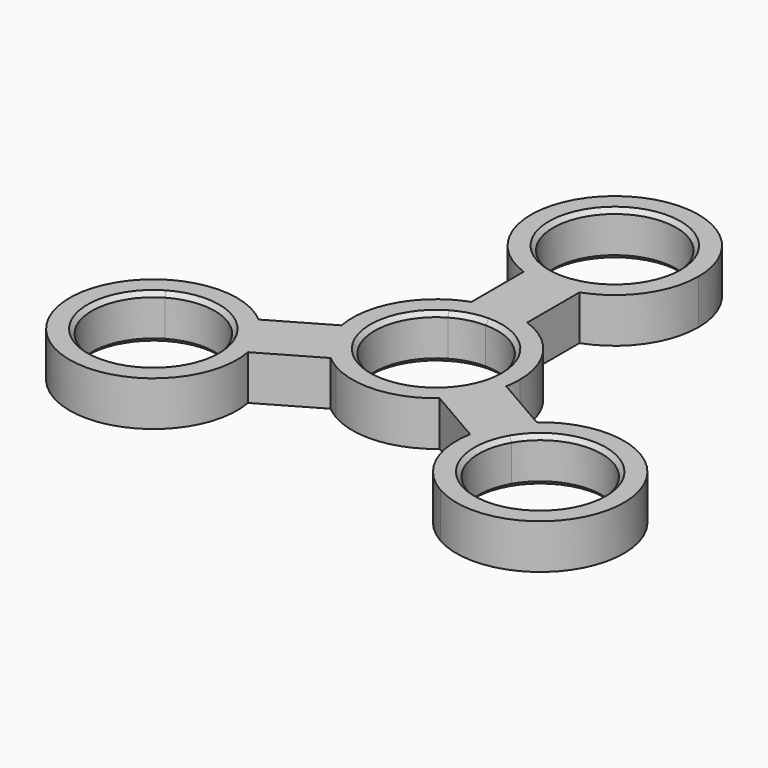
from build123d import *

# Parameters (mm, degrees)
F1_DEPTH = 8
F3_COUNT = 3
F4_SIZE  = 0.762


with BuildPart() as f1:
    # F0 (on Top) → F1 (new body)
    with BuildSketch(Plane.XY):
        with BuildLine():
            ThreePointArc((-4.9999998882, 25.8578643368), (-2.5365296225, 25.2160215952), (0, 25))
            ThreePointArc((0, 25), (2.5365296809, 25.2160216052), (5, 25.8578643763))
            ThreePointArc((5, 25.8578643763), (12.2474487139, 31.3397459622), (15, 40))
            ThreePointArc((15, 40), (-8.6602540862, 52.2474486797), (-4.9999998882, 25.8578643368))
        make_face()
        with BuildLine():
            ThreePointArc((11.025, 40), (7.7958522626, 32.2041477374), (0, 28.975))
            ThreePointArc((0, 28.975), (-7.7958522626, 47.7958522626), (11.025, 40))
        make_face(mode=Mode.SUBTRACT)
        with BuildLine():
            Line((0, 25), (0, 15))
            ThreePointArc((0, 15), (2.5365296809, 14.7839783948), (5, 14.1421356237))
            Line((5, 14.1421356237), (5, 25.8578643763))
            ThreePointArc((5, 25.8578643763), (2.5365296809, 25.2160216052), (0, 25))
        make_face()
        with BuildLine():
            ThreePointArc((-4.9999998882, 14.1421356632), (-2.5365296225, 14.7839784048), (0, 15))
            Line((0, 15), (0, 25))
            ThreePointArc((0, 25), (-2.5365296225, 25.2160215952), (-4.9999998882, 25.8578643368))
            Line((-4.9999998882, 25.8578643368), (-4.9999998882, 14.1421356632))
        make_face()
        with BuildLine():
            ThreePointArc((5, 14.1421356237), (2.5365296809, 14.7839783948), (0, 15))
            ThreePointArc((0, 15), (-2.5365296225, 14.7839784048), (-4.9999998882, 14.1421356632))
            ThreePointArc((-4.9999998882, 14.1421356632), (-8.6602540862, -12.2474486797), (15, 0))
            ThreePointArc((15, 0), (12.2474487139, 8.6602540378), (5, 14.1421356237))
        make_face()
        with BuildLine():
            ThreePointArc((0, 11.025), (7.7958522626, 7.7958522626), (11.025, 0))
            ThreePointArc((11.025, 0), (-7.7958522626, -7.7958522626), (0, 11.025))
        make_face(mode=Mode.SUBTRACT)
    extrude(amount=F1_DEPTH)

    # F3: F1 ×3 about axis
    f3_axis = Axis((0, 0, 23.3244411647), (0, 0, 1))


with BuildPart() as f1_1:
    add(f1.part)
    for i in range(1, F3_COUNT):
        add(f1.part.rotate(f3_axis, i * 360 / F3_COUNT))

    # F4
    f4_edges = [f1_1.edges().sort_by_distance(p)[0] for p in [
        (0, 51.025, 8),
        (0, -11.025, 8),
        (-44.188946, -25.5125, 8),
        (44.188946, -25.5125, 8),
        (-44.188946, -25.5125, 0),
        (0, -11.025, 0),
        (44.188946, -25.5125, 0),
        (0, 51.025, 0),
    ]]
    chamfer(f4_edges, length=F4_SIZE)


solid = f1_1.part
